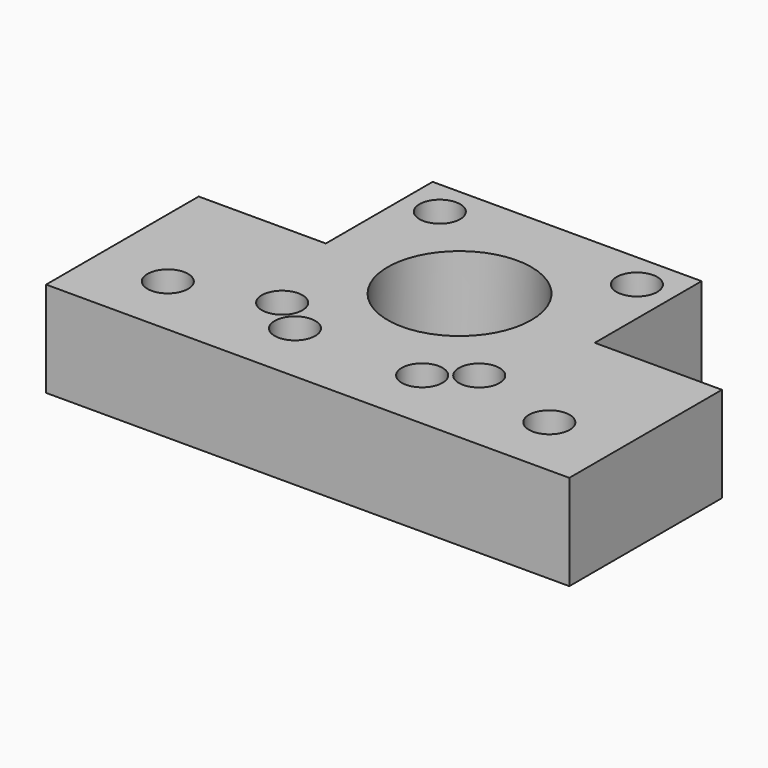
from build123d import *

# Parameters (mm, degrees)
SKETCH_R        = 11.3
SKETCH_R_2      = 1.6
SKETCH_R_3      = 3.2
PAD_DEPTH       = 15
SKETCH001_R     = 3.2
POCKET_DEPTH    = 3.4
SKETCH002_R     = 6.1
POCKET001_DEPTH = 4


with BuildPart() as part:
    # Sketch → Pad (new body)
    with BuildSketch(Plane.XY):
        Polygon((20, 30), (20, 51), (62.3, 51), (62.3, 30), (82.3, 30), (82.3, 0), (0, 0), (0, 30), align=None)
        with Locations((41.15, 29.85)):
            Circle(SKETCH_R, mode=Mode.SUBTRACT)
        with Locations((25.65, 45.35)):
            Circle(SKETCH_R_2, mode=Mode.SUBTRACT)
        with Locations((25.65, 14.35)):
            Circle(SKETCH_R_2, mode=Mode.SUBTRACT)
        with Locations((56.65, 45.35)):
            Circle(SKETCH_R_2, mode=Mode.SUBTRACT)
        with Locations((56.65, 14.35)):
            Circle(SKETCH_R_2, mode=Mode.SUBTRACT)
        with Locations((11.15, 10)):
            Circle(SKETCH_R_3, mode=Mode.SUBTRACT)
        with Locations((31.15, 10)):
            Circle(SKETCH_R_3, mode=Mode.SUBTRACT)
        with Locations((51.15, 10)):
            Circle(SKETCH_R_3, mode=Mode.SUBTRACT)
        with Locations((71.15, 10)):
            Circle(SKETCH_R_3, mode=Mode.SUBTRACT)
    extrude(amount=PAD_DEPTH)

    # Sketch001 (on Face19 of Pad) → Pocket (cut)
    with BuildSketch(Plane.XY.offset(15)):
        with Locations((25.65, 45.35)):
            Circle(SKETCH001_R)
        with Locations((56.65, 45.35)):
            Circle(SKETCH001_R)
        with Locations((56.65, 14.35)):
            Circle(SKETCH001_R)
        with Locations((25.65, 14.35)):
            Circle(SKETCH001_R)
    extrude(amount=-POCKET_DEPTH, mode=Mode.SUBTRACT)

    # Sketch002 (on Face4 of Pocket) → Pocket001 (cut)
    with BuildSketch(Plane(origin=(0, 0, 0), x_dir=(1, 0, 0), z_dir=(0, 0, -1))):
        with Locations((11.15, -10)):
            Circle(SKETCH002_R)
        with Locations((31.15, -10)):
            Circle(SKETCH002_R)
        with Locations((51.15, -10)):
            Circle(SKETCH002_R)
        with Locations((71.15, -10)):
            Circle(SKETCH002_R)
    extrude(amount=-POCKET001_DEPTH, mode=Mode.SUBTRACT)


solid = part.part
